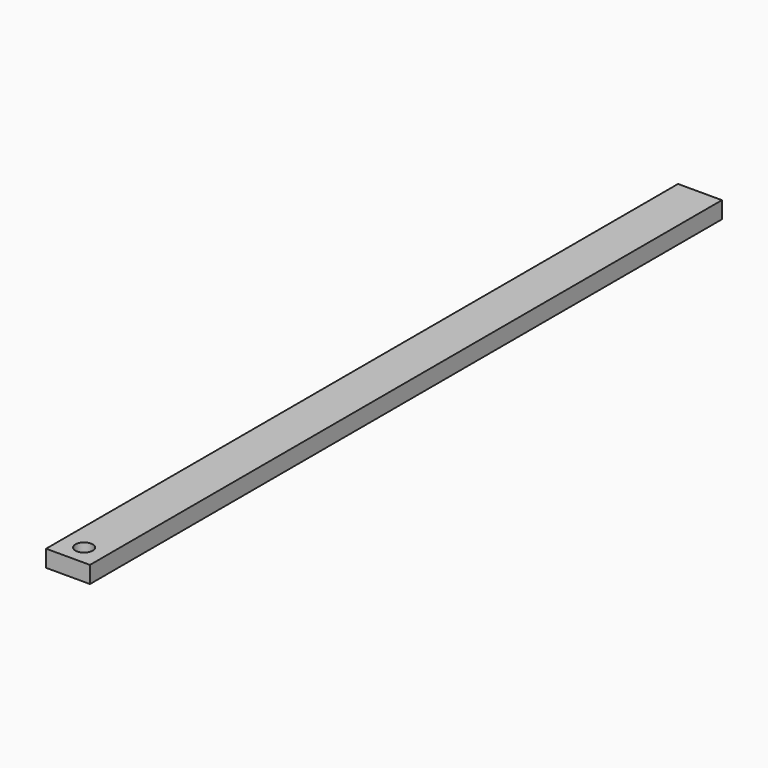
from build123d import *

# Parameters (mm, degrees)
F0_W     = 2.54
F0_H     = 0.976924
F1_DEPTH = 45.72
F2_R     = 0.499245
F3_DEPTH = 25.4
F4_R     = 0.551082
F5_DEPTH = 50.8


with BuildPart() as f1:
    # F0 (on Front) → F1 (new body)
    with BuildSketch(Plane.XZ):
        Rectangle(F0_W, F0_H)
    extrude(amount=F1_DEPTH)

    # F2 (on face) → F3 (cut)
    with BuildSketch(Plane.XY.offset(0.488462)):
        with Locations((0, -44.554785)):
            Circle(F2_R)
    extrude(amount=-F3_DEPTH, mode=Mode.SUBTRACT)

    # F4 (on Top) → F5 (cut)
    with BuildSketch(Plane.XY):
        with Locations((0, -1.580954)):
            Circle(F4_R)
    extrude(amount=-F5_DEPTH, mode=Mode.SUBTRACT)


solid = f1.part
